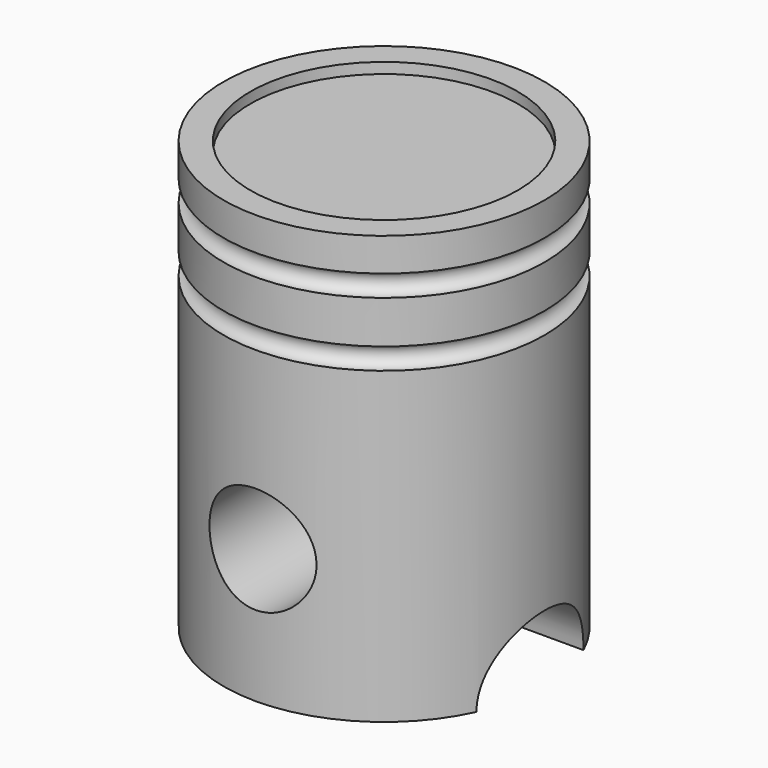
from build123d import *

# Parameters (mm, degrees)
F0_R      = 38.1
F1_DEPTH  = 101.6
F2_R      = 2.54
F4_R      = 2.54
F6_R      = 12.7
F7_DEPTH  = 50.8
F8_R      = 15.875
F9_DEPTH  = 50.8
F11_R     = 31.75
F12_DEPTH = 2.54


with BuildPart() as f1:
    # F0 (on Top) → F1 (new body)
    with BuildSketch(Plane.XY):
        Circle(F0_R)
    extrude(amount=F1_DEPTH)

    # F2 (on Front) → F3 (revolve, cut)
    with BuildSketch(Plane.XZ):
        with Locations((38.108225, 91.173758)):
            Circle(F2_R)
    revolve(axis=Axis((0, 0, 0), (0, 0, -1)), mode=Mode.SUBTRACT)

    # F4 (on Front) → F5 (revolve, cut)
    with BuildSketch(Plane.XZ):
        with Locations((38.096763, 75.933771)):
            Circle(F4_R)
    revolve(axis=Axis((0, 0, 0), (0, 0, -1)), mode=Mode.SUBTRACT)

    # F6 (on Front) → F7 (cut, symmetric)
    with BuildSketch(Plane.XZ):
        with Locations((0, 31.75)):
            Circle(F6_R)
    extrude(amount=F7_DEPTH, both=True, mode=Mode.SUBTRACT)

    # F8 (on Right) → F9 (cut, symmetric)
    with BuildSketch(Plane.YZ):
        Circle(F8_R)
    extrude(amount=F9_DEPTH, both=True, mode=Mode.SUBTRACT)

    # F11 (on offset) → F12 (cut)
    with BuildSketch(Plane.XY.offset(101.6)):
        Circle(F11_R)
    extrude(amount=-F12_DEPTH, mode=Mode.SUBTRACT)


solid = f1.part
